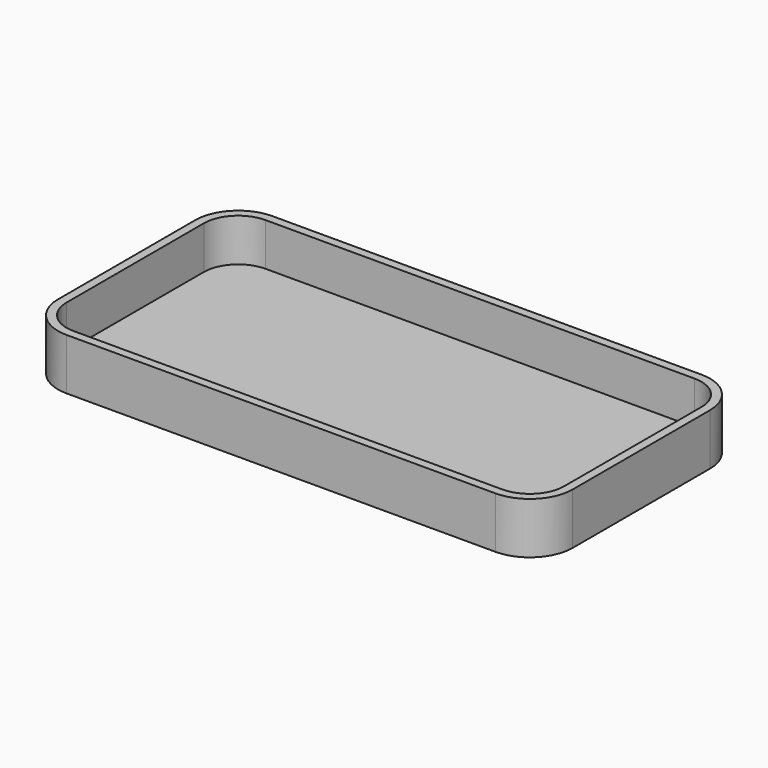
from build123d import *

# Parameters (mm, degrees)
F0_W     = 120
F0_H     = 60
F1_DEPTH = 12
F2_R     = 10
F4_DEPTH = 10


with BuildPart() as f1:
    # F0 (on Top) → F1 (new body)
    with BuildSketch(Plane.XY):
        with Locations((7.758874, -6.406293)):
            Rectangle(F0_W, F0_H)
    extrude(amount=F1_DEPTH)

    # F2
    f2_edges = [f1.edges().sort_by_distance(p)[0] for p in [
        (-52.241126, -36.406293, 6),
        (67.758874, -36.406293, 6),
        (67.758874, 23.593707, 6),
        (-52.241126, 23.593707, 6),
    ]]
    fillet(f2_edges, radius=F2_R)

    # F3 (on face) → F4 (cut)
    with BuildSketch(Plane.XY.offset(12)):
        with BuildLine():
            Line((65.758874, -26.406293), (65.758874, 13.593707))
            ThreePointArc((65.758874, 13.593707), (63.415729, 19.250562), (57.758874, 21.593707))
            Line((57.758874, 21.593707), (-42.241126, 21.593707))
            ThreePointArc((-42.241126, 21.593707), (-47.89798, 19.250562), (-50.241126, 13.593707))
            Line((-50.241126, 13.593707), (-50.241126, -26.406293))
            ThreePointArc((-50.241126, -26.406293), (-47.89798, -32.063147), (-42.241126, -34.406293))
            Line((-42.241126, -34.406293), (57.758874, -34.406293))
            ThreePointArc((57.758874, -34.406293), (63.415729, -32.063147), (65.758874, -26.406293))
        make_face()
    extrude(amount=-F4_DEPTH, mode=Mode.SUBTRACT)


solid = f1.part
